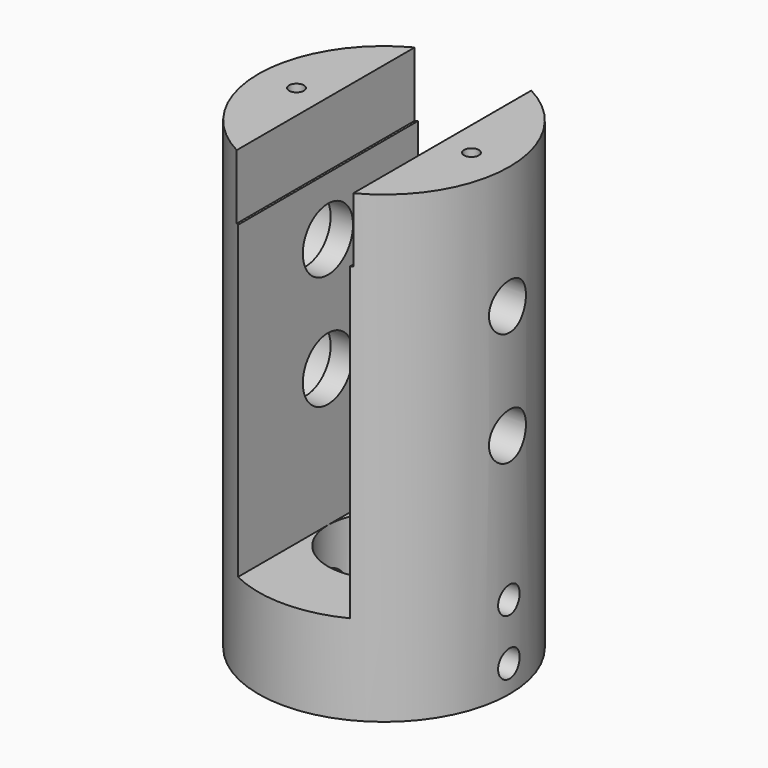
from build123d import *

# Parameters (mm, degrees)
F0_R            = 28
F0_R_2          = 12.5
F1_DEPTH        = 103.5
F3_DEPTH        = 28.5
F5_D            = 3.3
F5_DEPTH        = 12.25
F5_TIP          = 0.9914200214
F10_D           = 8.5
F10_DEPTH       = 28
F10_START       = 0.3244242
F10_TIP         = 2.5536576309
F11_D           = 10.3
F11_DEPTH       = 28.75
F11_TIP         = 3.094432188
F13_D           = 14
F13_DEPTH       = 28.75
F13_CBORE_D     = 20
F13_CBORE_DEPTH = 10.5
F13_TIP         = 4.2060243332
F15_D           = 6
F15_DEPTH       = 28.75
F15_TIP         = 1.8025818571


with BuildPart() as f1:
    # F0 (on Top) → F1 (new body)
    with BuildSketch(Plane.XY):
        Circle(F0_R)
        Circle(F0_R_2, mode=Mode.SUBTRACT)
    extrude(amount=F1_DEPTH)

    # F2 (on Front) → F3 (cut, symmetric)
    with BuildSketch(Plane.XZ):
        Polygon((13, 103.5), (0, 103.5), (-13, 103.5), (-13, 89.1), (-12.5, 89.1), (-12.5, 20), (0, 20), (12.5, 20), (12.5, 89.1), (13, 89.1), align=None)
    extrude(amount=F3_DEPTH, both=True, mode=Mode.SUBTRACT)

    # F5
    with Locations(Plane.XY.offset(103.5)):
        with Locations((-19.5, 0), (19.5, 0)):
            Hole(F5_D / 2, depth=F5_DEPTH)
            with Locations((0, 0, -(F5_DEPTH + F5_TIP / 2))):  # 118° drill point
                Cone(0, F5_D / 2, F5_TIP, mode=Mode.SUBTRACT)

    # F10
    # its depths count from where the whole tool has entered the part; down to there all is cleared
    with Locations(Plane(origin=(-28, 0, 0), x_dir=(0, 1, 0), z_dir=(-1, 0, 0)).offset(-F10_START)):
        with Locations((0, -7)):
            Hole(F10_D / 2, depth=F10_DEPTH)
            with Locations((0, 0, -(F10_DEPTH + F10_TIP / 2))):  # 118° drill point
                Cone(0, F10_D / 2, F10_TIP, mode=Mode.SUBTRACT)

    # F11
    with Locations(Plane(origin=(28, 0, 0), x_dir=(0, -1, 0), z_dir=(1, 0, 0))):
        with Locations((0, -50.7), (0, -76.1)):
            Hole(F11_D / 2, depth=F11_DEPTH)
            with Locations((0, 0, -(F11_DEPTH + F11_TIP / 2))):  # 118° drill point
                Cone(0, F11_D / 2, F11_TIP, mode=Mode.SUBTRACT)

    # F13
    with Locations(Plane(origin=(-28, 0, 0), x_dir=(0, 1, 0), z_dir=(-1, 0, 0))):
        with Locations((0, -76.1), (0, -50.7)):
            CounterBoreHole(F13_D / 2, F13_CBORE_D / 2, F13_CBORE_DEPTH, depth=F13_DEPTH)
            with Locations((0, 0, -(F13_DEPTH + F13_TIP / 2))):  # 118° drill point
                Cone(0, F13_D / 2, F13_TIP, mode=Mode.SUBTRACT)

    # F15
    with Locations(Plane(origin=(28, 0, 0), x_dir=(0, -1, 0), z_dir=(1, 0, 0))):
        with Locations((0, -18.5), (0, -6)):
            Hole(F15_D / 2, depth=F15_DEPTH)
            with Locations((0, 0, -(F15_DEPTH + F15_TIP / 2))):  # 118° drill point
                Cone(0, F15_D / 2, F15_TIP, mode=Mode.SUBTRACT)


solid = f1.part
